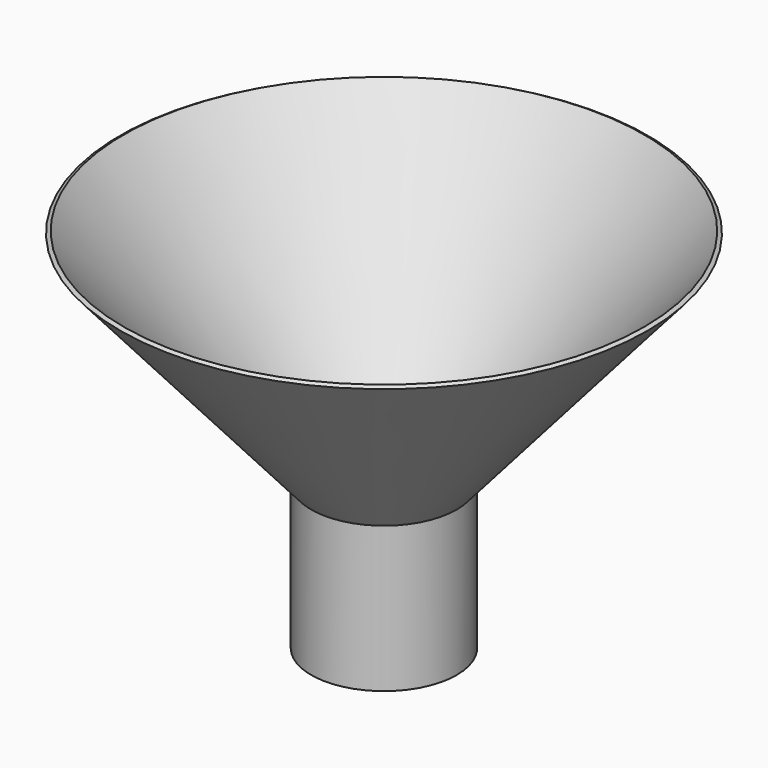
from build123d import *

# Parameters (mm, degrees)
F2_R     = 11.43
F3_DEPTH = 25.4


with BuildPart() as f1:
    # F0 (on Front) → F1 (revolve)
    with BuildSketch(Plane.XZ):
        Polygon((0, -25.4), (0, 0), (33.337682, 38.330653), (32.696133, 38.685276), (-0.949978, 0), (-12.7, 0), (-12.7, -25.4), align=None)
    revolve(axis=Axis((-12.7, 0, -12.7), (0, 0, 1)))

    # F2 (on Top) → F3 (cut)
    with BuildSketch(Plane.XY):
        with Locations((-12.7, 0)):
            Circle(F2_R)
    extrude(amount=-F3_DEPTH, mode=Mode.SUBTRACT)


solid = f1.part
